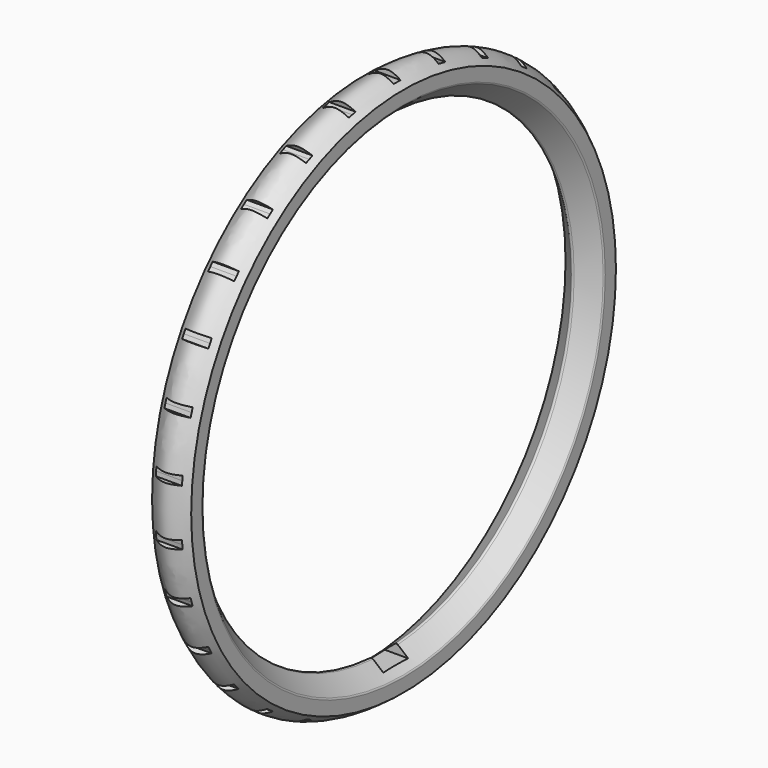
from build123d import *

# Parameters (mm, degrees)
F2_W     = 7
F2_H     = 7
F3_DEPTH = 55
F5_DEPTH = 12.5


with BuildPart() as f1:
    # F0 (on Top) → F1 (revolve)
    with BuildSketch(Plane.XY):
        with BuildLine():
            Line((-0.321394, -53.157055), (-4.227329, -56.434524))
            ThreePointArc((-4.227329, -56.434524), (-4.359089, -56.606237), (-4.405935, -56.817546))
            Line((-4.405935, -56.817546), (-4.405935, -59.817546))
            add(Edge.make_bspline(
                [(-4.405935, -59.817546), (-2.93729, -60.889677), (0, -63.033937), (2.93729, -60.889677), (4.405935, -59.817546)],
                knots=[0, 0, 0, 0, 4.900012, 9.800024, 9.800024, 9.800024, 9.800024], degree=3))
            Line((4.405935, -59.817546), (4.405935, -56.817546))
            ThreePointArc((4.405935, -56.817546), (4.359089, -56.606237), (4.227329, -56.434524))
            Line((4.227329, -56.434524), (0.321394, -53.157055))
            ThreePointArc((0.321394, -53.157055), (0, -53.040078), (-0.321394, -53.157055))
        make_face()
    revolve(axis=Axis((6.688325, 0, 0), (1, 0, 0)))

    # F2 (on Top) → F3 (cut, symmetric)
    with BuildSketch(Plane.XY):
        Rectangle(F2_W, F2_H)
    extrude(amount=F3_DEPTH, both=True, mode=Mode.SUBTRACT)

    # F4 (on Right) → F5 (cut, symmetric)
    with BuildSketch(Plane.YZ):
        Polygon((-0.972141, 60.837261), (0, 60.837261), (0.972141, 60.837261), (0.972141, 62.613577), (0, 62.613577), (-0.972141, 62.613577), align=None)
        Polygon((-13.599676, 59.305702), (-12.648778, 59.507821), (-11.69788, 59.709941), (-12.067197, 61.447439), (-13.018095, 61.24532), (-13.968992, 61.0432), align=None)
        Polygon((-25.632839, 55.182198), (-24.744743, 55.577604), (-23.856648, 55.973009), (-24.579141, 57.595754), (-25.467236, 57.200349), (-26.355331, 56.804943), align=None)
        Polygon((-36.545724, 48.646968), (-35.759245, 49.218378), (-34.972766, 49.789789), (-36.016858, 51.226858), (-36.803337, 50.655448), (-37.589816, 50.084037), align=None)
        Polygon((-45.861385, 39.985632), (-45.210896, 40.708074), (-44.560407, 41.430515), (-45.880466, 42.619102), (-46.530955, 41.896661), (-47.181445, 41.174219), align=None)
        Polygon((-53.172684, 29.576732), (-52.686614, 30.418631), (-52.200543, 31.26053), (-53.738877, 32.148687), (-54.224948, 31.306788), (-54.711019, 30.464889), align=None)
        Polygon((-58.160082, 17.875186), (-57.859674, 18.799748), (-57.559266, 19.724309), (-59.248642, 20.273221), (-59.54905, 19.348659), (-59.849458, 18.424098), align=None)
        Polygon((-60.605605, 5.39241), (-60.503988, 6.359225), (-60.402372, 7.326041), (-62.168956, 7.511717), (-62.270573, 6.544901), (-62.372189, 5.578085), align=None)
        Polygon((-60.402372, -7.326041), (-60.503988, -6.359225), (-60.605605, -5.39241), (-62.372189, -5.578085), (-62.270573, -6.544901), (-62.168956, -7.511717), align=None)
        Polygon((-57.559266, -19.724309), (-57.859674, -18.799748), (-58.160082, -17.875186), (-59.849458, -18.424098), (-59.54905, -19.348659), (-59.248642, -20.273221), align=None)
        Polygon((-52.200543, -31.26053), (-52.686614, -30.418631), (-53.172684, -29.576732), (-54.711019, -30.464889), (-54.224948, -31.306788), (-53.738877, -32.148687), align=None)
        Polygon((-44.560407, -41.430515), (-45.210896, -40.708074), (-45.861385, -39.985632), (-47.181445, -41.174219), (-46.530955, -41.896661), (-45.880466, -42.619102), align=None)
        Polygon((-34.972766, -49.789789), (-35.759245, -49.218378), (-36.545724, -48.646968), (-37.589816, -50.084037), (-36.803337, -50.655448), (-36.016858, -51.226858), align=None)
        Polygon((-23.856648, -55.973009), (-24.744743, -55.577604), (-25.632839, -55.182198), (-26.355331, -56.804943), (-25.467236, -57.200349), (-24.579141, -57.595754), align=None)
        Polygon((-11.69788, -59.709941), (-12.648778, -59.507821), (-13.599676, -59.305702), (-13.968992, -61.0432), (-13.018095, -61.24532), (-12.067197, -61.447439), align=None)
        Polygon((0.972141, -60.837261), (0, -60.837261), (-0.972141, -60.837261), (-0.972141, -62.613577), (0, -62.613577), (0.972141, -62.613577), align=None)
        Polygon((13.599676, -59.305702), (12.648778, -59.507821), (11.69788, -59.709941), (12.067197, -61.447439), (13.018095, -61.24532), (13.968992, -61.0432), align=None)
        Polygon((25.632839, -55.182198), (24.744743, -55.577604), (23.856648, -55.973009), (24.579141, -57.595754), (25.467236, -57.200349), (26.355331, -56.804943), align=None)
        Polygon((36.545724, -48.646968), (35.759245, -49.218378), (34.972766, -49.789789), (36.016858, -51.226858), (36.803337, -50.655448), (37.589816, -50.084037), align=None)
        Polygon((45.861385, -39.985632), (45.210896, -40.708074), (44.560407, -41.430515), (45.880466, -42.619102), (46.530955, -41.896661), (47.181445, -41.174219), align=None)
        Polygon((53.172684, -29.576732), (52.686614, -30.418631), (52.200543, -31.26053), (53.738877, -32.148687), (54.224948, -31.306788), (54.711019, -30.464889), align=None)
        Polygon((58.160082, -17.875186), (57.859674, -18.799748), (57.559266, -19.724309), (59.248642, -20.273221), (59.54905, -19.348659), (59.849458, -18.424098), align=None)
        Polygon((60.605605, -5.39241), (60.503988, -6.359225), (60.402372, -7.326041), (62.168956, -7.511717), (62.270573, -6.544901), (62.372189, -5.578085), align=None)
        Polygon((60.402372, 7.326041), (60.503988, 6.359225), (60.605605, 5.39241), (62.372189, 5.578085), (62.270573, 6.544901), (62.168956, 7.511717), align=None)
        Polygon((57.859674, 18.799748), (58.160082, 17.875186), (59.849458, 18.424098), (59.54905, 19.348659), (59.248642, 20.273221), (57.559266, 19.724309), align=None)
        Polygon((52.686614, 30.418631), (53.172684, 29.576732), (54.711019, 30.464889), (54.224948, 31.306788), (53.738877, 32.148687), (52.200543, 31.26053), align=None)
        Polygon((45.210896, 40.708074), (45.861385, 39.985632), (47.181445, 41.174219), (46.530955, 41.896661), (45.880466, 42.619102), (44.560407, 41.430515), align=None)
        Polygon((35.759245, 49.218378), (36.545724, 48.646968), (37.589816, 50.084037), (36.803337, 50.655448), (36.016858, 51.226858), (34.972766, 49.789789), align=None)
        Polygon((24.744743, 55.577604), (25.632839, 55.182198), (26.355331, 56.804943), (25.467236, 57.200349), (24.579141, 57.595754), (23.856648, 55.973009), align=None)
        Polygon((12.648778, 59.507821), (13.599676, 59.305702), (13.968992, 61.0432), (13.018095, 61.24532), (12.067197, 61.447439), (11.69788, 59.709941), align=None)
    extrude(amount=F5_DEPTH, both=True, mode=Mode.SUBTRACT)


solid = f1.part
